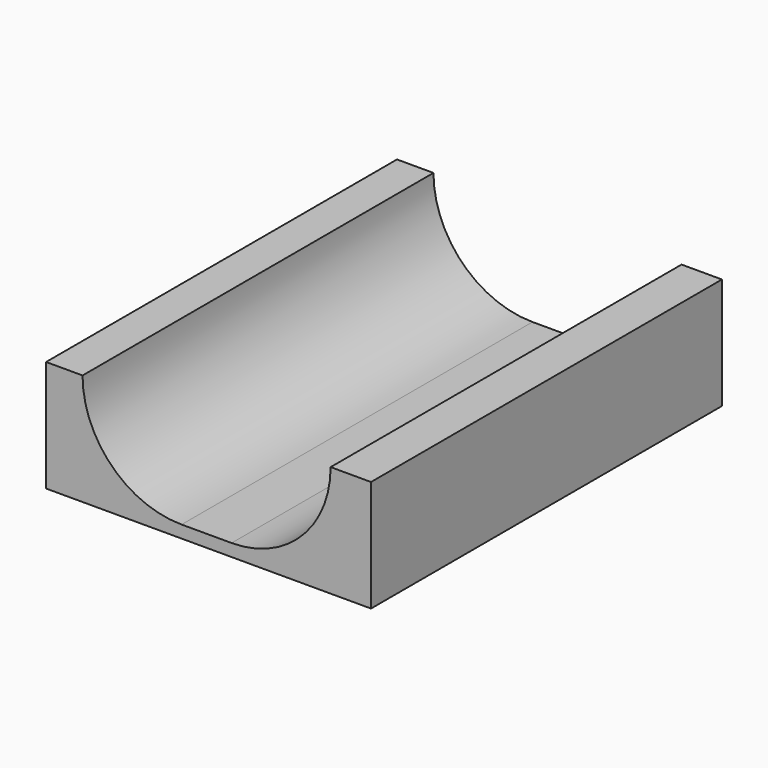
from build123d import *

# Parameters (mm, degrees)
F1_DEPTH = 10800


with BuildPart() as f1:
    # F0 (on Front) → F1 (new body)
    with BuildSketch(Plane.XZ):
        with BuildLine():
            Line((0, 2743.2), (0, 304.8))
            Line((0, 304.8), (3336.217165, 304.8))
            ThreePointArc((3336.217165, 304.8), (1612.00799, 1018.990825), (897.817165, 2743.2))
            Line((897.817165, 2743.2), (0, 2743.2))
        make_face()
        Polygon((0, 304.8), (0, 0), (8000, 0), (8000, 304.8), (4567.566395, 304.8), (3336.217165, 304.8), align=None)
        with BuildLine():
            Line((4567.566395, 304.8), (8000, 304.8))
            Line((8000, 304.8), (8000, 2743.2))
            Line((8000, 2743.2), (7005.966395, 2743.2))
            ThreePointArc((7005.966395, 2743.2), (6291.77557, 1018.990825), (4567.566395, 304.8))
        make_face()
    extrude(amount=F1_DEPTH)


solid = f1.part
